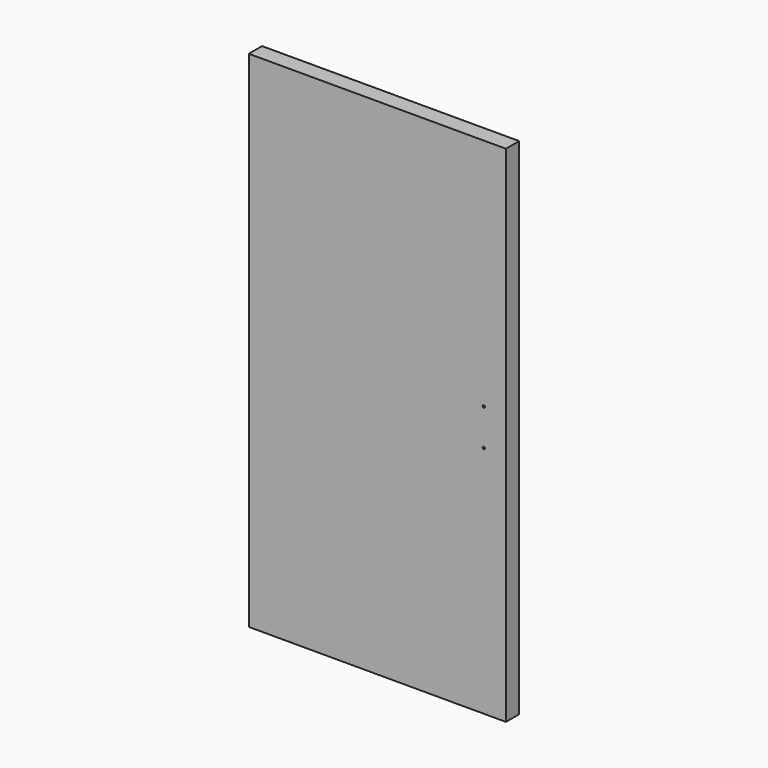
from build123d import *

# Parameters (mm, degrees)
F0_W     = 930
F0_H     = 1825
F1_DEPTH = 10
F3_DEPTH = 50
F5_D     = 8.5
F7_D     = 8.5
F7_DEPTH = 15


with BuildPart() as f1:
    # F0 (on Front) → F1 (new body)
    with BuildSketch(Plane.XZ):
        Rectangle(F0_W, F0_H)
    extrude(amount=F1_DEPTH)

    # F2 (on face) → F3 (join)
    with BuildSketch(Plane(origin=(0, 0, 0), x_dir=(-1, 0, 0), z_dir=(0, 1, 0))):
        Polygon((465, 912.5), (-465, 912.5), (-465, -912.5), (-455, -912.5), (-455, 902.500026), (455.000026, 902.500026), (455.000026, -912.5), (465, -912.5), align=None)
    extrude(amount=F3_DEPTH)

    # F5 (through all)
    with Locations(Plane.XZ.offset(10)):
        with Locations((385, 66), (385, -66)):
            Hole(F5_D / 2)

    # F7
    with Locations(Plane(origin=(-465, 0, 0), x_dir=(0, -1, 0), z_dir=(-1, 0, 0))):
        with Locations((-20.25, 727.5), (-20.25, 667.5), (-20.25, 1157.5), (-20.25, 1097.5), (-20.25, 30), (-20.25, -30)):
            Hole(F7_D / 2, depth=F7_DEPTH)


solid = f1.part
